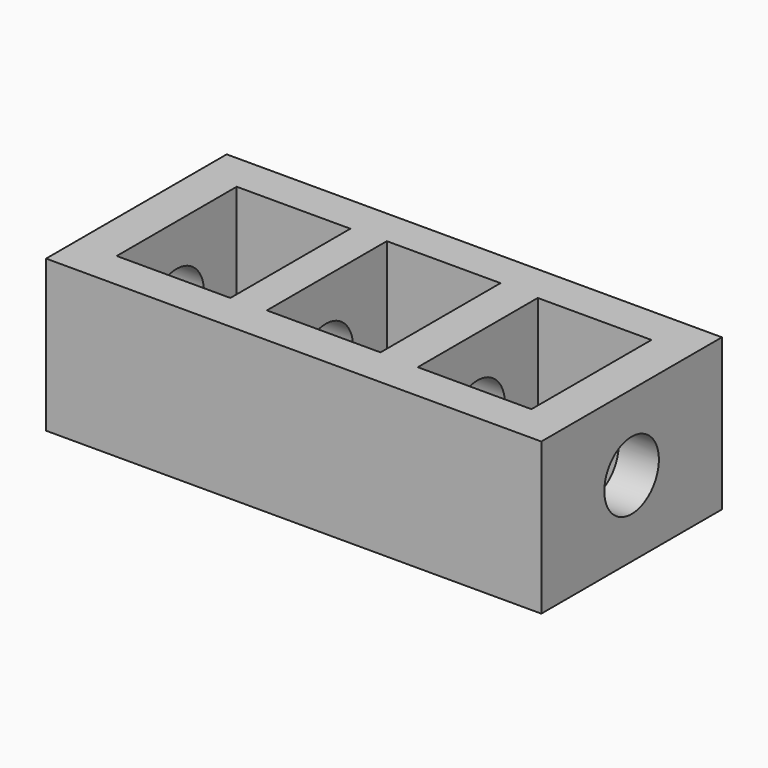
from build123d import *

# Parameters (mm, degrees)
SKETCH_W        = 130.707065
SKETCH_H        = 59.583364
SKETCH_W_2      = 30
SKETCH_H_2      = 39.583364
PAD_DEPTH       = 40
SKETCH001_R     = 9
POCKET_DEPTH    = 32
SKETCH002_R     = 9
POCKET001_DEPTH = 16
SKETCH003_R     = 9
POCKET002_DEPTH = 21
SKETCH004_R     = 9
POCKET003_DEPTH = 23


with BuildPart() as part:
    # Sketch → Pad (new body)
    with BuildSketch(Plane.XY):
        with Locations((-4.646459, 9.990193)):
            Rectangle(SKETCH_W, SKETCH_H)
        with Locations((-44.357391, 9.990193)):
            Rectangle(SKETCH_W_2, SKETCH_H_2, mode=Mode.SUBTRACT)
        with Locations((-5.023146, 10.351241)):
            Rectangle(SKETCH_W_2, SKETCH_H_2, mode=Mode.SUBTRACT)
        with Locations((35.101015, 9.990193)):
            Rectangle(SKETCH_W_2, SKETCH_H_2, mode=Mode.SUBTRACT)
    extrude(amount=PAD_DEPTH)

    # Sketch001 (on Face4 of Pad) → Pocket (cut)
    with BuildSketch(Plane(origin=(-69.999992, 0, 0), x_dir=(0, -1, 0), z_dir=(-1, 0, 0))):
        with Locations((-10.001616, 19.98172)):
            Circle(SKETCH001_R)
    extrude(amount=-POCKET_DEPTH, mode=Mode.SUBTRACT)

    # Sketch002 (on Face17 of Pocket) → Pocket001 (cut)
    with BuildSketch(Plane(origin=(-29.357391, 0, 0), x_dir=(0, -1, 0), z_dir=(-1, 0, 0))):
        with Locations((-10.001346, 19.991329)):
            Circle(SKETCH002_R)
    extrude(amount=-POCKET001_DEPTH, mode=Mode.SUBTRACT)

    # Sketch003 (on Face13 of Pocket001) → Pocket002 (cut)
    with BuildSketch(Plane(origin=(9.976854, 0, 0), x_dir=(0, -1, 0), z_dir=(-1, 0, 0))):
        with Locations((-9.927585, 19.937319)):
            Circle(SKETCH003_R)
    extrude(amount=-POCKET002_DEPTH, mode=Mode.SUBTRACT)

    # Sketch004 (on Face9 of Pocket002) → Pocket003 (cut)
    with BuildSketch(Plane(origin=(50.101015, 0, 0), x_dir=(0, -1, 0), z_dir=(-1, 0, 0))):
        with Locations((-9.980604, 20.028202)):
            Circle(SKETCH004_R)
    extrude(amount=-POCKET003_DEPTH, mode=Mode.SUBTRACT)


solid = part.part
